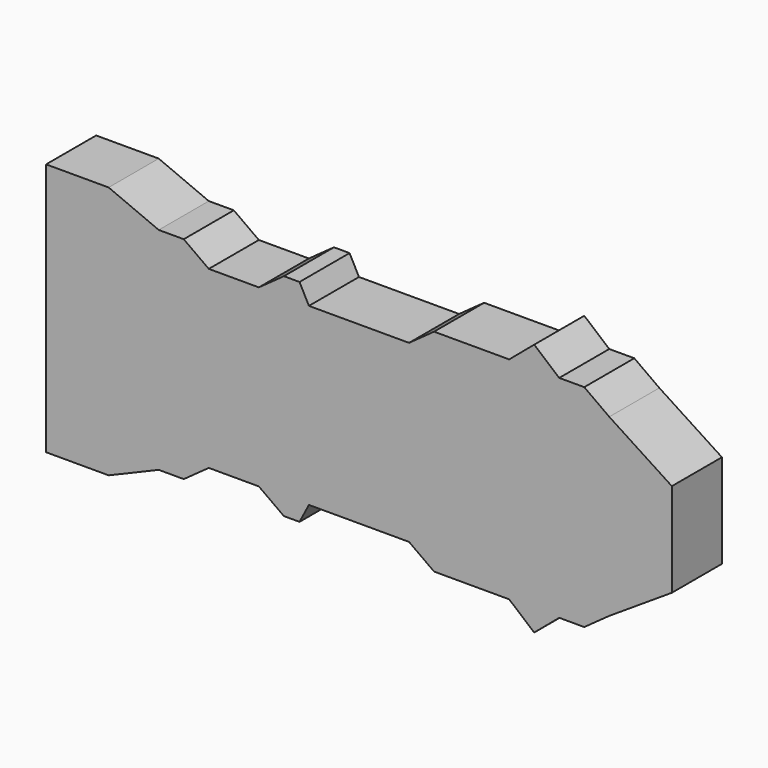
from build123d import *

# Parameters (mm, degrees)
PAD_DEPTH = 2


with BuildPart() as part:
    # Sketch → Pad (new body)
    with BuildSketch(Plane.XZ):
        Polygon((2, 8.1), (3.6, 7.425), (4.4, 7.425), (5.2, 6.85), (6.8, 6.85), (7.6, 7.425), (8.1, 7.425), (8.4, 6.85), (10, 6.85), (11.6, 6.85), (12.4, 7.425), (13.2, 7.425), (14.8, 7.425), (15.6, 8.1), (16.4, 7.425), (17.2, 7.425), (18, 6.85), (20, 5.55), (20, 4.05), (0, 4.05), (0, 8.1), align=None)
    pad = extrude(amount=PAD_DEPTH)

    # Mirrored: Pad across Sketch Axis8
    add(pad.mirror(Plane(origin=(0, 0, 4.05), x_dir=(0, -1, 0), z_dir=(0, 0, 1))))


solid = part.part
